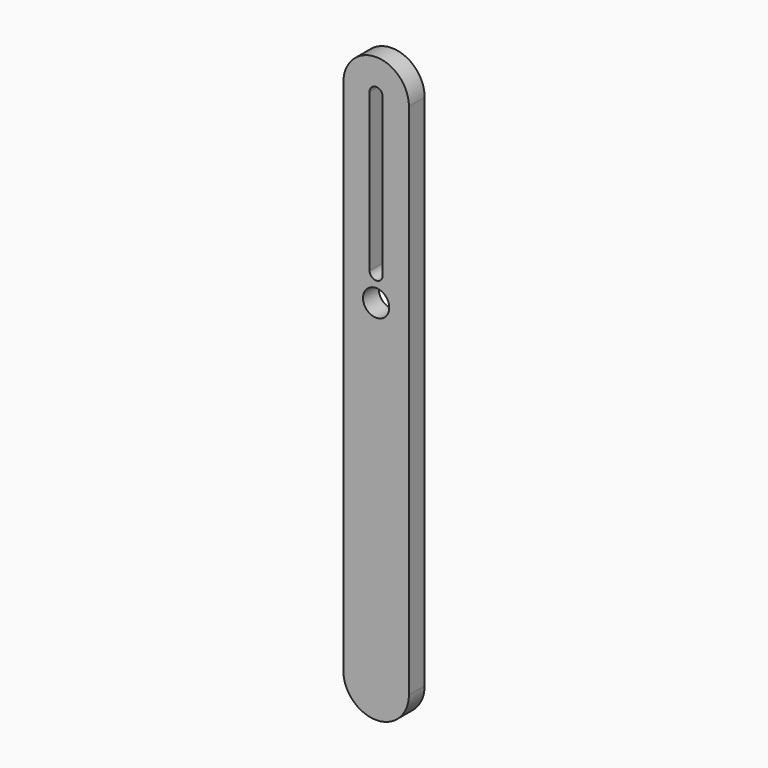
from build123d import *

# Parameters (mm, degrees)
F0_R     = 2
F1_DEPTH = 3


with BuildPart() as f1:
    # F0 (on Front) → F1 (new body)
    with BuildSketch(Plane.XZ):
        with BuildLine():
            Line((-5, 79), (-5, 0))
            ThreePointArc((-5, 0), (0, -5), (5, 0))
            Line((5, 0), (5, 79))
            ThreePointArc((5, 79), (0, 84), (-5, 79))
        make_face()
        with Locations((0, 51)):
            Circle(F0_R, mode=Mode.SUBTRACT)
        with BuildLine():
            ThreePointArc((-1, 79), (0, 80), (1, 79))
            Line((1, 79), (1, 55))
            ThreePointArc((1, 55), (0, 54), (-1, 55))
            Line((-1, 55), (-1, 79))
        make_face(mode=Mode.SUBTRACT)
    extrude(amount=F1_DEPTH)


solid = f1.part
